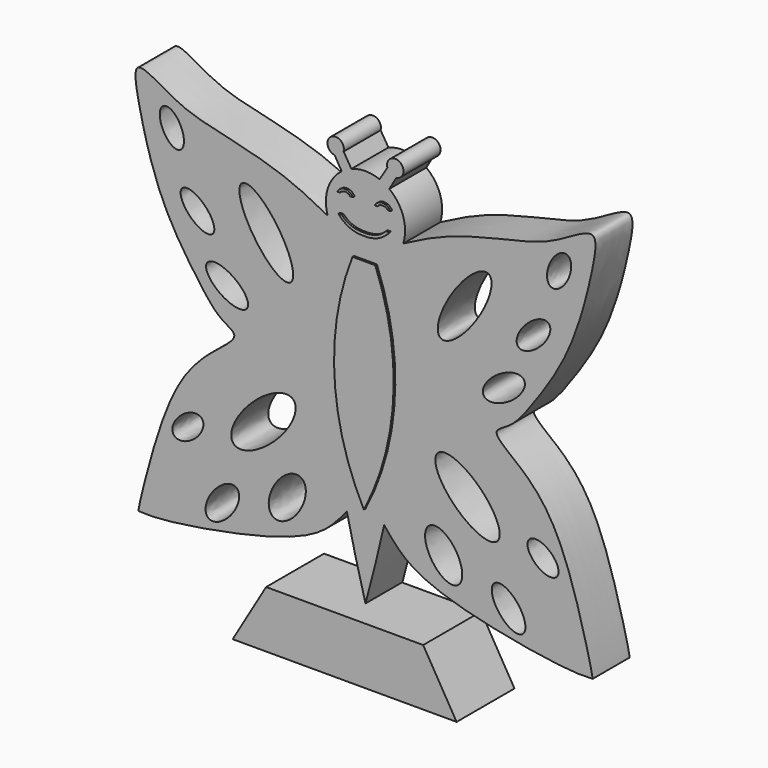
from build123d import *

# Parameters (mm, degrees)
F1_DEPTH = 16
F3_DEPTH = 25
F5_DEPTH = 16.7


with BuildPart() as f1:
    # F0 (on Front) → F1 (new body)
    with BuildSketch(Plane.XZ):
        with BuildLine():
            Line((-10.6688958518, 62.8029153732), (-8.2310719227, 58.6313120286))
            ThreePointArc((-8.2310719227, 58.6313120286), (-13.0378168206, 51.8857155317), (-13.078158703, 43.6028270774))
            ThreePointArc((-13.078158703, 43.6028270774), (-9.5980959037, 37.9060310165), (-3.8388230555, 34.53036831))
            add(Edge.make_bspline(
                [(-3.8388230555, 34.53036831), (-7.3701216159, 18.5591046515), (-12.9591305426, -6.7259432056), (-8.6563824535, -34.0127184475), (-6.4553752005, -44.1932590252)],
                knots=[0, 0, 0, 0, 0.4815665413, 0.7626141093, 0.7626141093, 0.7626141093, 0.7626141093], degree=3))
            add(Edge.make_bspline(
                [(-6.4553752005, -44.1932590252), (-4.5963017667, -52.7922186622), (-2.2982506308, -61.4799969103), (0, -70.1677891289)],
                knots=[0.7626141093, 0.7626141093, 0.7626141093, 0.7626141093, 1, 1, 1, 1], degree=3))
            add(Edge.make_bspline(
                [(6.4553752005, -44.1932590252), (4.5963017667, -52.7922186622), (2.2982506308, -61.4799969103), (0, -70.1677891289)],
                knots=[0.7626141093, 0.7626141093, 0.7626141093, 0.7626141093, 1, 1, 1, 1], degree=3))
            add(Edge.make_bspline(
                [(3.8388230555, 34.53036831), (7.3701216159, 18.5591046515), (12.9591305426, -6.7259432056), (8.6563824535, -34.0127184475), (6.4553752005, -44.1932590252)],
                knots=[0, 0, 0, 0, 0.4815665413, 0.7626141093, 0.7626141093, 0.7626141093, 0.7626141093], degree=3))
            ThreePointArc((3.8388230555, 34.53036831), (9.5980959037, 37.9060310165), (13.078158703, 43.6028270774))
            ThreePointArc((13.078158703, 43.6028270774), (13.0378168206, 51.8857155317), (8.2310719227, 58.6313120286))
            Line((8.2310719227, 58.6313120286), (10.6688958518, 62.8029153732))
            ThreePointArc((10.6688958518, 62.8029153732), (11.8684250814, 67.9980102902), (7.5628426561, 64.8531984439))
            Line((7.5628426561, 64.8531984439), (4.8587566438, 60.4892451785))
            ThreePointArc((4.8587566438, 60.4892451785), (0, 61.3798348741), (-4.8587566438, 60.4892451785))
            Line((-4.8587566438, 60.4892451785), (-7.5628426561, 64.8531984439))
            ThreePointArc((-7.5628426561, 64.8531984439), (-11.8684250814, 67.9980102902), (-10.6688958518, 62.8029153732))
        make_face()
        with BuildLine():
            add(Edge.make_bspline(
                [(3.8388230555, 34.53036831), (7.3701216159, 18.5591046515), (12.9591305426, -6.7259432056), (8.6563824535, -34.0127184475), (6.4553752005, -44.1932590252)],
                knots=[0, 0, 0, 0, 0.4815665413, 0.7626141093, 0.7626141093, 0.7626141093, 0.7626141093], degree=3))
            add(Edge.make_bspline(
                [(78.5265415907, -67.5552040339), (76.6351237539, -67.6422825262), (71.1066035343, -67.8969220845), (46.9559044174, -64.4320541565), (16.3214758765, -56.5645828579), (9.3298348661, -47.7527164097), (6.4553752005, -44.1932590252)],
                knots=[0, 0, 0, 0, 0.1513908312, 0.4428509972, 0.7748682863, 1, 1, 1, 1], degree=3))
            add(Edge.make_bspline(
                [(13.078158703, 43.6028270774), (17.3314166089, 45.8263745029), (26.4572110709, 50.6125119016), (44.9941378084, 55.7909217531), (62.8956506124, 59.2366835351), (73.6831450958, 66.6011379919), (80.527544916, 68.6773291026), (78.1435390577, 54.3011377869), (71.4440287138, 29.0333676997), (58.3290098477, 9.8825325357), (50.805671712, -0.1344036136), (42.058098494, -3.3005244092), (57.5463161225, -13.2431635008), (70.2372024566, -31.2158831643), (78.2867424514, -65.5669745056), (78.5265415907, -67.5552040339)],
                knots=[0, 0, 0, 0, 0.0732878065, 0.1568075814, 0.2388358058, 0.3076112359, 0.3464659379, 0.4088827823, 0.5095269082, 0.6017401354, 0.6689099217, 0.7127766637, 0.7804954591, 0.879886267, 0.9900118491, 0.9900118491, 0.9900118491, 0.9900118491], degree=3))
            ThreePointArc((13.078158703, 43.6028270774), (9.5980959037, 37.9060310165), (3.8388230555, 34.53036831))
        make_face()
        with BuildLine():
            add(Edge.make_bspline(
                [(22.2167149186, -39.1460731626), (14.8656714778, -43.8240097328), (25.7523149287, -52.8168045662), (36.6389583796, -61.8095993996), (33.1033583695, -48.1388679959), (29.5677583594, -34.4681365923), (22.2167149186, -39.1460731626)],
                knots=[0, 0, 0, 2.0943951024, 2.0943951024, 4.1887902048, 4.1887902048, 6.2831853072, 6.2831853072, 6.2831853072], degree=2, weights=[1, 0.5, 1, 0.5, 1, 0.5, 1]))
        make_face(mode=Mode.SUBTRACT)
        with BuildLine():
            add(Edge.make_bspline(
                [(44.5970855653, -49.447670579), (39.0845181687, -53.7835808153), (49.1332587919, -60.8870723126), (59.1819994152, -67.9905638099), (54.6458261886, -56.5511620762), (50.109652962, -45.1117603426), (44.5970855653, -49.447670579)],
                knots=[0, 0, 0, 2.0943951024, 2.0943951024, 4.1887902048, 4.1887902048, 6.2831853072, 6.2831853072, 6.2831853072], degree=2, weights=[1, 0.5, 1, 0.5, 1, 0.5, 1]))
        make_face(mode=Mode.SUBTRACT)
        with BuildLine():
            add(Edge.make_bspline(
                [(56.5553754568, -32.2783403099), (52.4393184834, -37.0804049182), (61.7084714946, -40.860338887), (70.9776245058, -44.6402728558), (65.824528468, -36.0582742786), (60.6714324302, -27.4762757015), (56.5553754568, -32.2783403099)],
                knots=[0, 0, 0, 2.0943951024, 2.0943951024, 4.1887902048, 4.1887902048, 6.2831853072, 6.2831853072, 6.2831853072], degree=2, weights=[1, 0.5, 1, 0.5, 1, 0.5, 1]))
        make_face(mode=Mode.SUBTRACT)
        with BuildLine():
            add(Edge.make_bspline(
                [(45.567009598, -36.3989844918), (52.8400716509, -28.9606240457), (33.7511389119, -17.5707923654), (14.6622061729, -6.180960685), (26.478076859, -25.0091528115), (38.2939475451, -43.8373449379), (45.567009598, -36.3989844918)],
                knots=[0, 0, 0, 2.0943951024, 2.0943951024, 4.1887902048, 4.1887902048, 6.2831853072, 6.2831853072, 6.2831853072], degree=2, weights=[1, 0.5, 1, 0.5, 1, 0.5, 1]))
        make_face(mode=Mode.SUBTRACT)
        with BuildLine():
            add(Edge.make_bspline(
                [(25.97361058, 19.0188270062), (33.1936930569, 14.2054394086), (42.0303980485, 35.2822553466), (50.8671030402, 56.3590712845), (34.8103155716, 40.0956429442), (18.7535281031, 23.8322146038), (25.97361058, 19.0188270062)],
                knots=[0, 0, 0, 2.0943951024, 2.0943951024, 4.1887902048, 4.1887902048, 6.2831853072, 6.2831853072, 6.2831853072], degree=2, weights=[1, 0.5, 1, 0.5, 1, 0.5, 1]))
        make_face(mode=Mode.SUBTRACT)
        with BuildLine():
            add(Edge.make_bspline(
                [(40.9097075462, 6.2954900786), (44.7597931801, 0.6335994854), (53.2070370256, 10.5176997684), (61.6542808712, 20.4018000513), (49.3569513917, 16.1795903616), (37.0596219123, 11.9573806719), (40.9097075462, 6.2954900786)],
                knots=[0, 0, 0, 2.0943951024, 2.0943951024, 4.1887902048, 4.1887902048, 6.2831853072, 6.2831853072, 6.2831853072], degree=2, weights=[1, 0.5, 1, 0.5, 1, 0.5, 1]))
        make_face(mode=Mode.SUBTRACT)
        with BuildLine():
            add(Edge.make_bspline(
                [(52.8032630682, 25.1039080322), (57.1390289538, 20.7681406099), (62.8540856626, 30.8189611787), (68.5691423714, 40.8697817475), (58.518319777, 35.154728601), (48.4674971826, 29.4396754545), (52.8032630682, 25.1039080322)],
                knots=[0, 0, 0, 2.0943951024, 2.0943951024, 4.1887902048, 4.1887902048, 6.2831853072, 6.2831853072, 6.2831853072], degree=2, weights=[1, 0.5, 1, 0.5, 1, 0.5, 1]))
        make_face(mode=Mode.SUBTRACT)
        with BuildLine():
            add(Edge.make_bspline(
                [(64.1436316073, 46.9548627734), (69.557522673, 44.3768199048), (70.9994906875, 54.378561465), (72.4414587021, 64.3803030252), (65.5855996218, 56.9566043336), (58.7297405416, 49.532905642), (64.1436316073, 46.9548627734)],
                knots=[0, 0, 0, 2.0943951024, 2.0943951024, 4.1887902048, 4.1887902048, 6.2831853072, 6.2831853072, 6.2831853072], degree=2, weights=[1, 0.5, 1, 0.5, 1, 0.5, 1]))
        make_face(mode=Mode.SUBTRACT)
        with BuildLine():
            ThreePointArc((-3.8388230555, 34.53036831), (-9.5980959037, 37.9060310165), (-13.078158703, 43.6028270774))
            add(Edge.make_bspline(
                [(-13.078158703, 43.6028270774), (-17.3314166089, 45.8263745029), (-26.4572110709, 50.6125119016), (-44.9941378084, 55.7909217531), (-62.8956506124, 59.2366835351), (-73.6831450958, 66.6011379919), (-80.527544916, 68.6773291026), (-78.1435390577, 54.3011377869), (-71.4440287138, 29.0333676997), (-58.3290098477, 9.8825325357), (-50.805671712, -0.1344036136), (-42.058098494, -3.3005244092), (-57.5463161225, -13.2431635008), (-70.2372024566, -31.2158831643), (-78.2867424514, -65.5669745056), (-78.5265415907, -67.5552040339)],
                knots=[0, 0, 0, 0, 0.0732878065, 0.1568075814, 0.2388358058, 0.3076112359, 0.3464659379, 0.4088827823, 0.5095269082, 0.6017401354, 0.6689099217, 0.7127766637, 0.7804954591, 0.879886267, 0.9900118491, 0.9900118491, 0.9900118491, 0.9900118491], degree=3))
            add(Edge.make_bspline(
                [(-78.5265415907, -67.5552040339), (-76.6351237539, -67.6422825262), (-71.1066035343, -67.8969220845), (-46.9559044174, -64.4320541565), (-16.3214758765, -56.5645828579), (-9.3298348661, -47.7527164097), (-6.4553752005, -44.1932590252)],
                knots=[0, 0, 0, 0, 0.1513908312, 0.4428509972, 0.7748682863, 1, 1, 1, 1], degree=3))
            add(Edge.make_bspline(
                [(-3.8388230555, 34.53036831), (-7.3701216159, 18.5591046515), (-12.9591305426, -6.7259432056), (-8.6563824535, -34.0127184475), (-6.4553752005, -44.1932590252)],
                knots=[0, 0, 0, 0, 0.4815665413, 0.7626141093, 0.7626141093, 0.7626141093, 0.7626141093], degree=3))
        make_face()
        with BuildLine():
            add(Edge.make_bspline(
                [(-44.5970855653, -49.447670579), (-50.109652962, -45.1117603426), (-54.6458261886, -56.5511620762), (-59.1819994152, -67.9905638099), (-49.1332587919, -60.8870723126), (-39.0845181687, -53.7835808153), (-44.5970855653, -49.447670579)],
                knots=[0, 0, 0, 2.0943951024, 2.0943951024, 4.1887902048, 4.1887902048, 6.2831853072, 6.2831853072, 6.2831853072], degree=2, weights=[1, 0.5, 1, 0.5, 1, 0.5, 1]))
        make_face(mode=Mode.SUBTRACT)
        with BuildLine():
            add(Edge.make_bspline(
                [(-56.5553754568, -32.2783403099), (-60.6714324302, -27.4762757015), (-65.824528468, -36.0582742786), (-70.9776245058, -44.6402728558), (-61.7084714946, -40.860338887), (-52.4393184834, -37.0804049182), (-56.5553754568, -32.2783403099)],
                knots=[0, 0, 0, 2.0943951024, 2.0943951024, 4.1887902048, 4.1887902048, 6.2831853072, 6.2831853072, 6.2831853072], degree=2, weights=[1, 0.5, 1, 0.5, 1, 0.5, 1]))
        make_face(mode=Mode.SUBTRACT)
        with BuildLine():
            add(Edge.make_bspline(
                [(-22.2167149186, -39.1460731626), (-29.5677583594, -34.4681365923), (-33.1033583695, -48.1388679959), (-36.6389583796, -61.8095993996), (-25.7523149287, -52.8168045662), (-14.8656714778, -43.8240097328), (-22.2167149186, -39.1460731626)],
                knots=[0, 0, 0, 2.0943951024, 2.0943951024, 4.1887902048, 4.1887902048, 6.2831853072, 6.2831853072, 6.2831853072], degree=2, weights=[1, 0.5, 1, 0.5, 1, 0.5, 1]))
        make_face(mode=Mode.SUBTRACT)
        with BuildLine():
            add(Edge.make_bspline(
                [(-45.567009598, -36.3989844918), (-38.2939475451, -43.8373449379), (-26.478076859, -25.0091528115), (-14.6622061729, -6.180960685), (-33.7511389119, -17.5707923654), (-52.8400716509, -28.9606240457), (-45.567009598, -36.3989844918)],
                knots=[0, 0, 0, 2.0943951024, 2.0943951024, 4.1887902048, 4.1887902048, 6.2831853072, 6.2831853072, 6.2831853072], degree=2, weights=[1, 0.5, 1, 0.5, 1, 0.5, 1]))
        make_face(mode=Mode.SUBTRACT)
        with BuildLine():
            add(Edge.make_bspline(
                [(-40.9097075462, 6.2954900786), (-37.0596219123, 11.9573806719), (-49.3569513917, 16.1795903616), (-61.6542808712, 20.4018000513), (-53.2070370256, 10.5176997684), (-44.7597931801, 0.6335994854), (-40.9097075462, 6.2954900786)],
                knots=[0, 0, 0, 2.0943951024, 2.0943951024, 4.1887902048, 4.1887902048, 6.2831853072, 6.2831853072, 6.2831853072], degree=2, weights=[1, 0.5, 1, 0.5, 1, 0.5, 1]))
        make_face(mode=Mode.SUBTRACT)
        with BuildLine():
            add(Edge.make_bspline(
                [(-52.8032630682, 25.1039080322), (-48.4674971826, 29.4396754545), (-58.518319777, 35.154728601), (-68.5691423714, 40.8697817475), (-62.8540856626, 30.8189611787), (-57.1390289538, 20.7681406099), (-52.8032630682, 25.1039080322)],
                knots=[0, 0, 0, 2.0943951024, 2.0943951024, 4.1887902048, 4.1887902048, 6.2831853072, 6.2831853072, 6.2831853072], degree=2, weights=[1, 0.5, 1, 0.5, 1, 0.5, 1]))
        make_face(mode=Mode.SUBTRACT)
        with BuildLine():
            add(Edge.make_bspline(
                [(-25.97361058, 19.0188270062), (-18.7535281031, 23.8322146038), (-34.8103155716, 40.0956429442), (-50.8671030402, 56.3590712845), (-42.0303980485, 35.2822553466), (-33.1936930569, 14.2054394086), (-25.97361058, 19.0188270062)],
                knots=[0, 0, 0, 2.0943951024, 2.0943951024, 4.1887902048, 4.1887902048, 6.2831853072, 6.2831853072, 6.2831853072], degree=2, weights=[1, 0.5, 1, 0.5, 1, 0.5, 1]))
        make_face(mode=Mode.SUBTRACT)
        with BuildLine():
            add(Edge.make_bspline(
                [(-64.1436316073, 46.9548627734), (-58.7297405416, 49.532905642), (-65.5855996218, 56.9566043336), (-72.4414587021, 64.3803030252), (-70.9994906875, 54.378561465), (-69.557522673, 44.3768199048), (-64.1436316073, 46.9548627734)],
                knots=[0, 0, 0, 2.0943951024, 2.0943951024, 4.1887902048, 4.1887902048, 6.2831853072, 6.2831853072, 6.2831853072], degree=2, weights=[1, 0.5, 1, 0.5, 1, 0.5, 1]))
        make_face(mode=Mode.SUBTRACT)
    extrude(amount=F1_DEPTH)

    # F4 (on Front) → F5 (join)
    with BuildSketch(Plane.XZ):
        with BuildLine():
            Line((-4.6619013883, 52.4326264858), (-3.7637767382, 52.4700507522))
            ThreePointArc((-3.7637767382, 52.4700507522), (-6.4793238046, 54.0793454569), (-9.1723410617, 52.4326264858))
            Line((-9.1723410617, 52.4326264858), (-8.2918209955, 52.4326264858))
            ThreePointArc((-8.2918209955, 52.4326264858), (-6.4768611919, 53.2977845174), (-4.6619013883, 52.4326264858))
        make_face()
        with BuildLine():
            ThreePointArc((9.1723410617, 52.4326264858), (6.4793238046, 54.0793454569), (3.7637767382, 52.4700507522))
            Line((3.7637767382, 52.4700507522), (4.6619013883, 52.4326264858))
            ThreePointArc((4.6619013883, 52.4326264858), (6.4768611919, 53.2977845174), (8.2918209955, 52.4326264858))
            Line((8.2918209955, 52.4326264858), (9.1723410617, 52.4326264858))
        make_face()
        with BuildLine():
            Line((-7.6159066521, 45.8662211895), (-8.8116871193, 45.8662211895))
            ThreePointArc((-8.8116871193, 45.8662211895), (-4.8878469777, 42.8267326939), (0, 41.964199394))
            ThreePointArc((0, 41.964199394), (4.8878469777, 42.8267326939), (8.8116871193, 45.8662211895))
            Line((8.8116871193, 45.8662211895), (7.6159066521, 45.8662211895))
            add(Edge.make_bspline(
                [(7.6159066521, 45.8662211895), (6.8648874845, 45.1454291302), (5.2965443647, 43.6402088699), (1.3836517327, 42.8781162439), (0.3737395151, 42.9460389286), (0, 42.971175164)],
                knots=[0, 0, 0, 0, 0.3666180705, 0.7656035336, 1, 1, 1, 1], degree=3))
            add(Edge.make_bspline(
                [(-7.6159066521, 45.8662211895), (-6.8648874845, 45.1454291302), (-5.2965443647, 43.6402088699), (-1.3836517327, 42.8781162439), (-0.3737395151, 42.9460389286), (0, 42.971175164)],
                knots=[0, 0, 0, 0, 0.3666180705, 0.7656035336, 1, 1, 1, 1], degree=3))
        make_face()
        with BuildLine():
            Line((3.9362534881, 34.2905595899), (-3.9362534881, 34.2905595899))
            ThreePointArc((-3.9362534881, 34.2905595899), (-10.1804877306, -3.9637103799), (0, -41.3634069264))
            ThreePointArc((0, -41.3634069264), (10.1804877306, -3.9637103799), (3.9362534881, 34.2905595899))
        make_face()
    extrude(amount=F5_DEPTH)


with BuildPart() as f3:
    # F2 (on Front) → F3 (new body)
    with BuildSketch(Plane.XZ):
        Polygon((27.1373433596, -70.3214332461), (0, -70.3214332461), (-27.1373433596, -70.3214332461), (-38.69875893, -89.9517461658), (0, -89.9517461658), (38.69875893, -89.9517461658), align=None)
    extrude(amount=F3_DEPTH)


solid = Compound([f1.part, f3.part])
